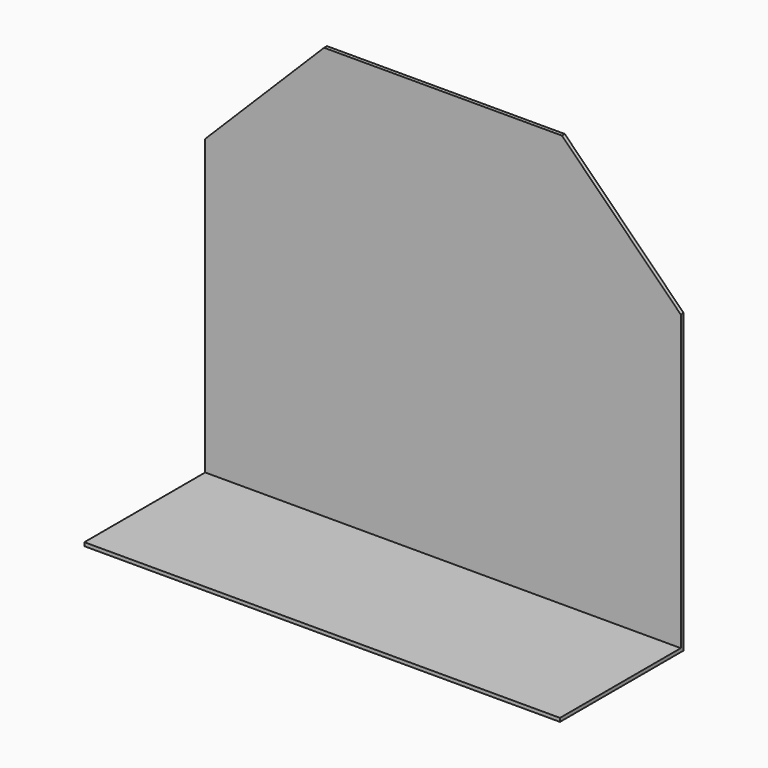
from build123d import *

# Parameters (mm, degrees)
F1_DEPTH = 200
F2_SIZE  = 100


with BuildPart() as f1:
    # F0 (on Right) → F1 (new body, symmetric)
    with BuildSketch(Plane.YZ):
        Polygon((-130, 0), (0, 0), (0, 350), (-3, 350), (-3, 3), (-130, 3), align=None)
    extrude(amount=F1_DEPTH, both=True)

    # F2
    f2_edges = [f1.edges().sort_by_distance(p)[0] for p in [
        (200, -1.5, 350),
        (-200, -1.5, 350),
    ]]
    chamfer(f2_edges, length=F2_SIZE)


solid = f1.part
